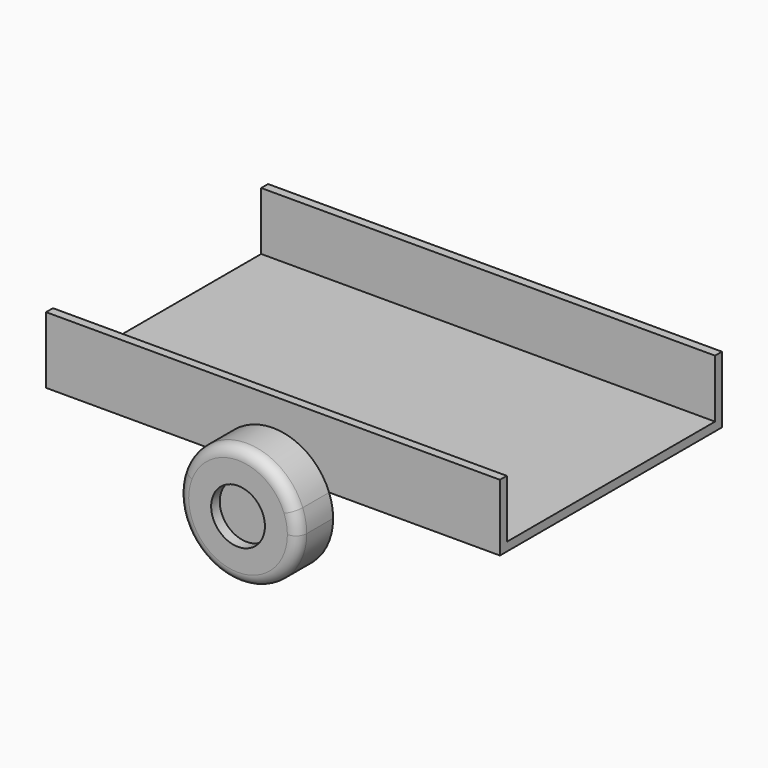
from build123d import *

# Parameters (mm, degrees)
F0_W     = 2110
F0_H     = 1290
F1_DEPTH = 310
F2_T     = -40
F4_DEPTH = 203.2
F5_R     = 50
F6_R     = 125
F7_DEPTH = 50


with BuildPart() as f1:
    # F0 (on Top) → F1 (new body)
    with BuildSketch(Plane.XY):
        Rectangle(F0_W, F0_H)
    extrude(amount=F1_DEPTH)

    # F2
    f2_openings = [f1.faces().sort_by_distance(p)[0] for p in [
        (1055, 0, 155),
        (0, 0, 310),
        (-1055, 0, 155),
    ]]
    offset(amount=F2_T, openings=f2_openings)

    # F3 (on face) → F4 (join)
    with BuildSketch(Plane.XZ.offset(645)):
        with BuildLine():
            Line((-260.891472, 0), (260.891472, 0))
            ThreePointArc((260.891472, 0), (0, 179.4), (-260.891472, 0))
        make_face()
        with BuildLine():
            ThreePointArc((-260.891472, 0), (-50.849203, -374.733905), (279.4, -100))
            ThreePointArc((279.4, -100), (274.733905, -49.150797), (260.891472, 0))
            Line((260.891472, 0), (-260.891472, 0))
        make_face()
    extrude(amount=F4_DEPTH)

    # F5
    f5_edges = [f1.edges().sort_by_distance(p)[0] for p in [
        (-279.4, -848.2, -100),
    ]]
    fillet(f5_edges, radius=F5_R)

    # F6 (on face) → F7 (cut)
    with BuildSketch(Plane.XZ.offset(848.2)):
        with Locations((0, -100)):
            Circle(F6_R)
    extrude(amount=-F7_DEPTH, mode=Mode.SUBTRACT)

    # F8: F1 across plane


with BuildPart() as f1_1:
    add(f1.part)
    add(f1.part.mirror(Plane.XZ))


solid = f1_1.part
